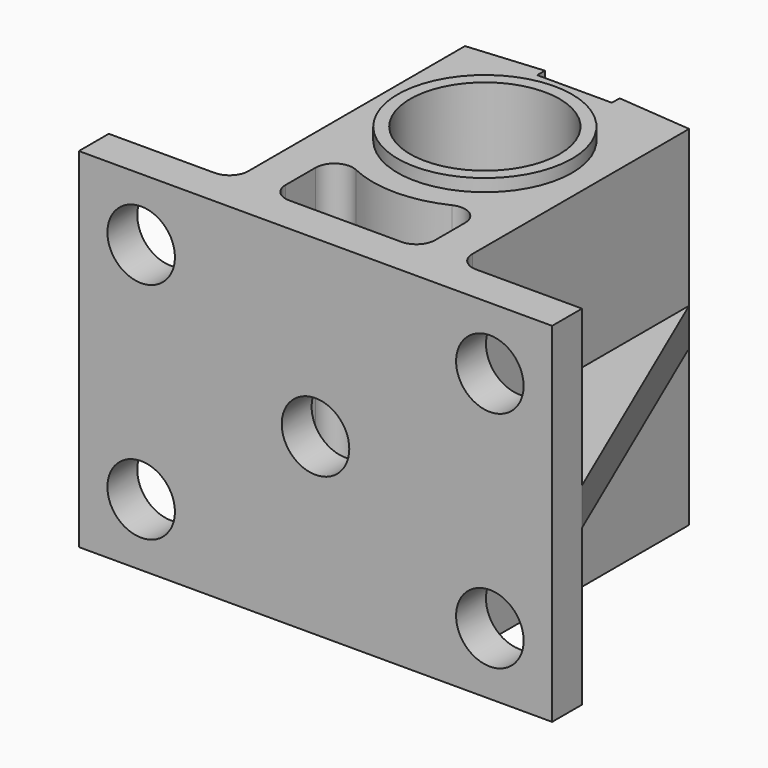
from build123d import *

# Parameters (mm, degrees)
F0_R          = 4.7625
F1_DEPTH      = 22.225
F4_DEPTH      = 1.190625
F5_R          = 5.55625
F5_R_2        = 4.7625
F7_DEPTH      = 0.79375
F7_DEPTH_BACK = 23.01875
F8_R          = 1.7272
F9_DEPTH      = 10.0554862042
F11_DEPTH     = 22.225
F12_R         = 2.15265
F13_DEPTH     = 2.38125
F14_R         = 1.190625
F15_R         = 2.15265
F16_DEPTH     = 2.38125
F17_R         = 3.96875
F18_DEPTH     = 18.8729875805


with BuildPart() as f1:
    # F0 (on Top) → F1 (new body)
    with BuildSketch(Plane.XY):
        Polygon((-15.08125, -13.49375), (15.08125, -13.49375), (15.08125, -11.1125), (7.14375, -11.1125), (7.14375, 7.3428228204), (2.38125, 7.7594875805), (2.38125, 7.14375), (-2.38125, 7.14375), (-2.38125, 7.7594875805), (-7.14375, 7.3428228204), (-7.14375, -11.1125), (-15.08125, -11.1125), align=None)
        Circle(F0_R, mode=Mode.SUBTRACT)
    extrude(amount=F1_DEPTH)

    # F3 (on offset) → F4 (join, symmetric)
    with BuildSketch(Plane(origin=(0, 0, 11.1125), x_dir=(1, 0, 0), z_dir=(0, 0, -1))):
        Polygon((-15.08125, 11.1125), (-7.14375, -7.3428228204), (-7.14375, 11.1125), align=None)
        Polygon((15.08125, 11.1125), (7.14375, 11.1125), (7.14375, -7.3428228204), align=None)
    extrude(amount=F4_DEPTH, both=True)

    # F5 (on face) → F7 (join, two sides)
    with BuildSketch(Plane(origin=(0, 0, 0), x_dir=(1, 0, 0), z_dir=(0, 0, -1))) as f7_sk:
        Circle(F5_R)
        Circle(F5_R_2, mode=Mode.SUBTRACT)
    extrude(amount=F7_DEPTH)
    extrude(f7_sk.sketch, amount=-F7_DEPTH_BACK)

    # F8 (on face) → F9 (cut, up to face)
    with BuildSketch(Plane.XZ.offset(13.49375)):
        with Locations((0, 11.1125)):
            Circle(F8_R)
    extrude(amount=-F9_DEPTH, mode=Mode.SUBTRACT)

    # F10 (on face) → F11 (cut, through all)
    with BuildSketch(Plane.XY.offset(22.225)):
        with BuildLine():
            Line((-4.7625, -5.3246368714), (-4.7625, -11.1125))
            Line((-4.7625, -11.1125), (4.7625, -11.1125))
            Line((4.7625, -11.1125), (4.7625, -5.3246368714))
            ThreePointArc((4.7625, -5.3246368714), (0, -7.14375), (-4.7625, -5.3246368714))
        make_face()
    extrude(amount=-F11_DEPTH, mode=Mode.SUBTRACT)

    # F12 (on face) → F13 (cut, through all)
    with BuildSketch(Plane.XZ.offset(13.49375)):
        with Locations((0, 11.1125)):
            Circle(F12_R)
    extrude(amount=-F13_DEPTH, mode=Mode.SUBTRACT)

    # F14
    f14_edges = [f1.edges().sort_by_distance(p)[0] for p in [
        (7.14375, -11.1125, 4.960938),
        (7.14375, -11.1125, 17.264063),
        (-7.14375, -11.1125, 4.960938),
        (-7.14375, -11.1125, 17.264063),
        (-4.7625, -11.1125, 11.1125),
        (4.7625, -11.1125, 11.1125),
        (4.7625, -5.324637, 11.1125),
        (-4.7625, -5.324637, 11.1125),
    ]]
    fillet(f14_edges, radius=F14_R)

    # F15 (on face) → F16 (cut, through all)
    with BuildSketch(Plane.XZ.offset(13.49375)):
        with Locations((11.1125, 18.25625)):
            Circle(F15_R)
        with Locations((-11.1125, 18.25625)):
            Circle(F15_R)
        with Locations((-11.1125, 3.96875)):
            Circle(F15_R)
        with Locations((11.1125, 3.96875)):
            Circle(F15_R)
    extrude(amount=-F16_DEPTH, mode=Mode.SUBTRACT)

    # F17 (on face) → F18 (cut, through all)
    with BuildSketch(Plane(origin=(0, -11.1125, 0), x_dir=(-1, 0, 0), z_dir=(0, 1, 0))):
        with Locations((11.1125000001, 18.25625)):
            Circle(F17_R)
        with Locations((11.1125000001, 3.96875)):
            Circle(F17_R)
        with Locations((-11.1124999999, 3.96875)):
            Circle(F17_R)
        with Locations((-11.1124999999, 18.25625)):
            Circle(F17_R)
    extrude(amount=F18_DEPTH, mode=Mode.SUBTRACT)


solid = f1.part
